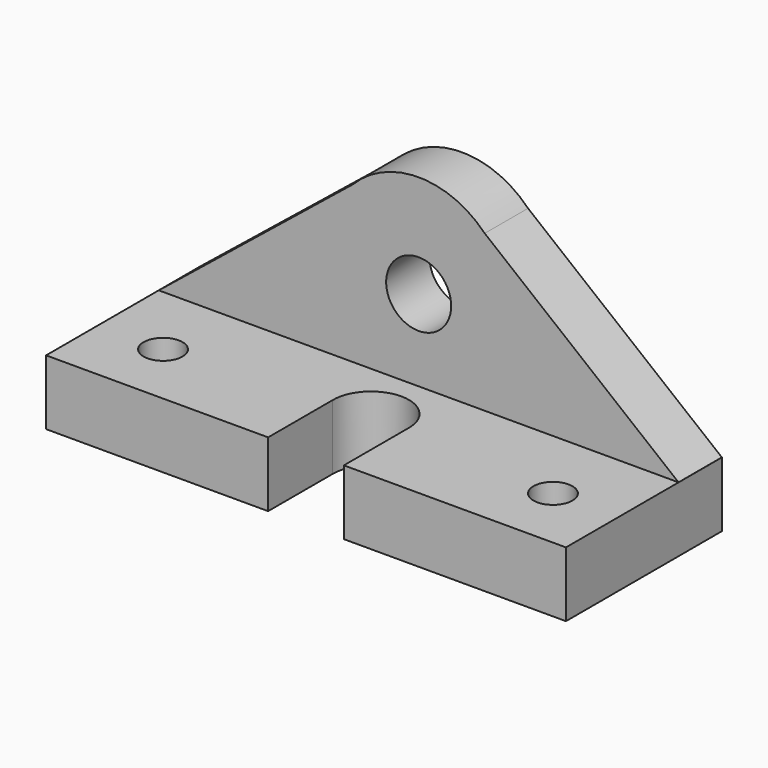
from build123d import *

# Parameters (mm, degrees)
F0_W      = 96
F0_H      = 36
F1_DEPTH  = 12
F2_R      = 3.6
F3_DEPTH  = 12.001
F5_DEPTH  = 12.001
F8_DEPTH  = 10
F9_R      = 6
F10_DEPTH = 10.001


with BuildPart() as f1:
    # F0 (on Top) → F1 (new body)
    with BuildSketch(Plane.XY):
        with Locations((-48, 18)):
            Rectangle(F0_W, F0_H)
    extrude(amount=F1_DEPTH)

    # F2 (on face) → F3 (cut, through all)
    with BuildSketch(Plane.XY.offset(12)):
        with Locations((-12, 12)):
            Circle(F2_R)
        with Locations((-84, 12)):
            Circle(F2_R)
    extrude(amount=-F3_DEPTH, mode=Mode.SUBTRACT)

    # F4 (on face) → F5 (cut, through all)
    with BuildSketch(Plane.XY.offset(12)):
        with BuildLine():
            Line((-41.0088156365, -1.4656213384), (-41.0088156365, 14.6488003482))
            ThreePointArc((-41.0088156365, 14.6488003482), (-47.8732599834, 21.9988525465), (-54.9993160638, 14.9021499143))
            Line((-54.9993160638, 14.9021499143), (-54.9993160638, -1.4656213384))
            Line((-54.9993160638, -1.4656213384), (-41.0088156365, -1.4656213384))
        make_face()
    extrude(amount=-F5_DEPTH, mode=Mode.SUBTRACT)

    # F7 (on offset) → F8 (join)
    with BuildSketch(Plane(origin=(0, 36, 0), x_dir=(-1, 0, 0), z_dir=(0, 1, 0))):
        with BuildLine():
            Line((35.7998133379, 40.8387265113), (0, 11.9867287576))
            Line((0, 11.9867287576), (96, 11.9867287576))
            Line((96, 11.9867287576), (60.2001866621, 40.8387265113))
            ThreePointArc((60.2001866621, 40.8387265113), (48, 46), (35.7998133379, 40.8387265113))
        make_face()
    extrude(amount=-F8_DEPTH)

    # F9 (on face) → F10 (cut, through all)
    with BuildSketch(Plane.XZ.offset(-26)):
        with Locations((-48, 27)):
            Circle(F9_R)
    extrude(amount=-F10_DEPTH, mode=Mode.SUBTRACT)


solid = f1.part
